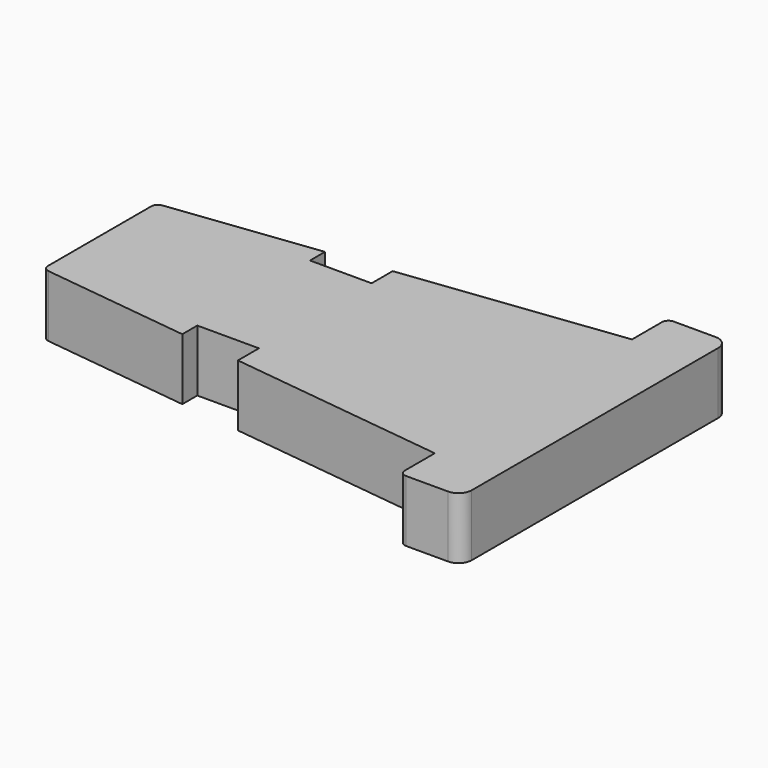
from build123d import *

# Parameters (mm, degrees)
F1_DEPTH = 14


with BuildPart() as f1:
    # F0 (on Top) → F1 (new body)
    with BuildSketch(Plane.XY):
        with BuildLine():
            Line((56.713558, -35), (56.713558, 35))
            ThreePointArc((56.713558, 35), (55.834879, 37.12132), (53.713558, 38))
            Line((53.713558, 38), (44.213558, 38))
            ThreePointArc((44.213558, 38), (43.152898, 37.56066), (42.713558, 36.5))
            Line((42.713558, 36.5), (42.713558, 28))
            Line((42.713558, 28), (-6.833858, 21.966671))
            Line((-6.833858, 21.966671), (-6.833858, 16))
            Line((-6.833858, 16), (-20.833858, 16))
            Line((-20.833858, 16), (-20.833858, 20.261908))
            Line((-20.833858, 20.261908), (-54.515171, 16.160575))
            ThreePointArc((-54.515171, 16.160575), (-55.456794, 15.666065), (-55.833858, 14.671573))
            Line((-55.833858, 14.671573), (-55.833858, 0))
            Line((-55.833858, 0), (-55.833858, -14.671573))
            ThreePointArc((-55.833858, -14.671573), (-55.456794, -15.666065), (-54.515171, -16.160575))
            Line((-54.515171, -16.160575), (-20.833858, -20.261908))
            Line((-20.833858, -20.261908), (-20.833858, -16))
            Line((-20.833858, -16), (-6.833858, -16))
            Line((-6.833858, -16), (-6.833858, -17.832412))
            Line((-6.833858, -17.832412), (-6.833858, -18.001248))
            Line((-6.833858, -18.001248), (-6.833858, -21.966671))
            Line((-6.833858, -21.966671), (42.713558, -28))
            Line((42.713558, -28), (42.713558, -36.5))
            ThreePointArc((42.713558, -36.5), (43.152898, -37.56066), (44.213558, -38))
            Line((44.213558, -38), (53.713558, -38))
            ThreePointArc((53.713558, -38), (55.834879, -37.12132), (56.713558, -35))
        make_face()
    extrude(amount=F1_DEPTH)


solid = f1.part
